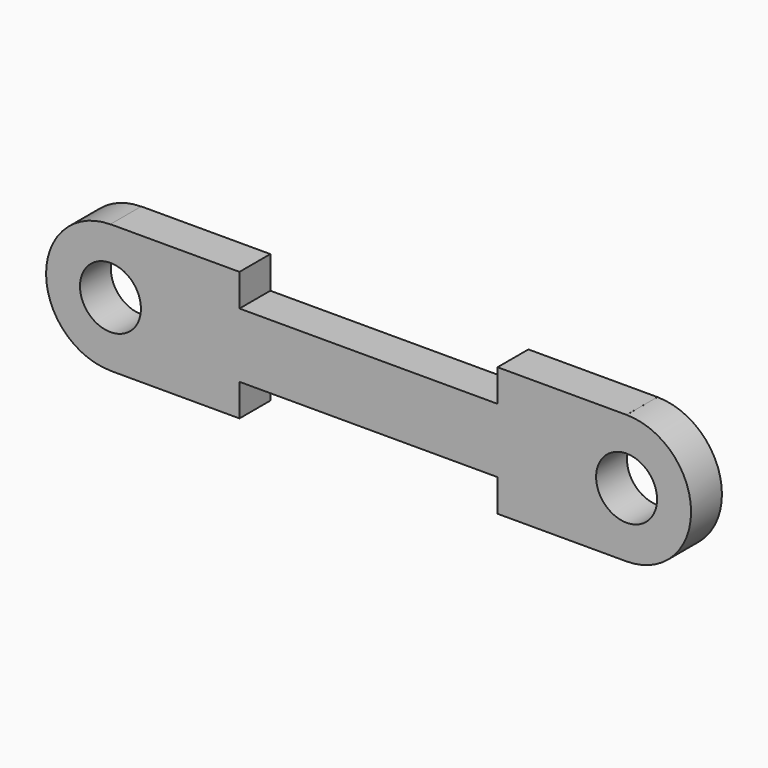
from build123d import *

# Parameters (mm, degrees)
F0_R     = 1.49987
F1_DEPTH = 1.89738


with BuildPart() as f1:
    # F0 (on Front) → F1 (new body)
    with BuildSketch(Plane.XZ):
        with BuildLine():
            Line((-35.355524, 44.232099), (-41.705524, 44.232099))
            Line((-41.705524, 44.232099), (-41.705524, 42.644599))
            Line((-41.705524, 42.644599), (-54.405524, 42.644599))
            Line((-54.405524, 42.644599), (-54.405524, 44.232099))
            Line((-54.405524, 44.232099), (-60.755524, 44.231093))
            Line((-60.755524, 44.231093), (-60.755524, 44.224526))
            ThreePointArc((-60.755524, 44.224526), (-63.922951, 41.057099), (-60.755524, 37.889672))
            Line((-60.755524, 37.889672), (-60.755524, 37.883105))
            Line((-60.755524, 37.883105), (-54.405524, 37.882099))
            Line((-54.405524, 37.882099), (-54.405524, 39.469599))
            Line((-54.405524, 39.469599), (-41.705524, 39.469599))
            Line((-41.705524, 39.469599), (-41.705524, 37.882099))
            Line((-41.705524, 37.882099), (-35.355524, 37.882099))
            Line((-35.355524, 37.882099), (-35.355524, 37.883105))
            ThreePointArc((-35.355524, 37.883105), (-32.18153, 41.057099), (-35.355524, 44.231093))
            Line((-35.355524, 44.231093), (-35.355524, 44.232099))
        make_face()
        with Locations((-60.755524, 41.057099)):
            Circle(F0_R, mode=Mode.SUBTRACT)
        with Locations((-35.355524, 41.057099)):
            Circle(F0_R, mode=Mode.SUBTRACT)
    extrude(amount=F1_DEPTH)


solid = f1.part
